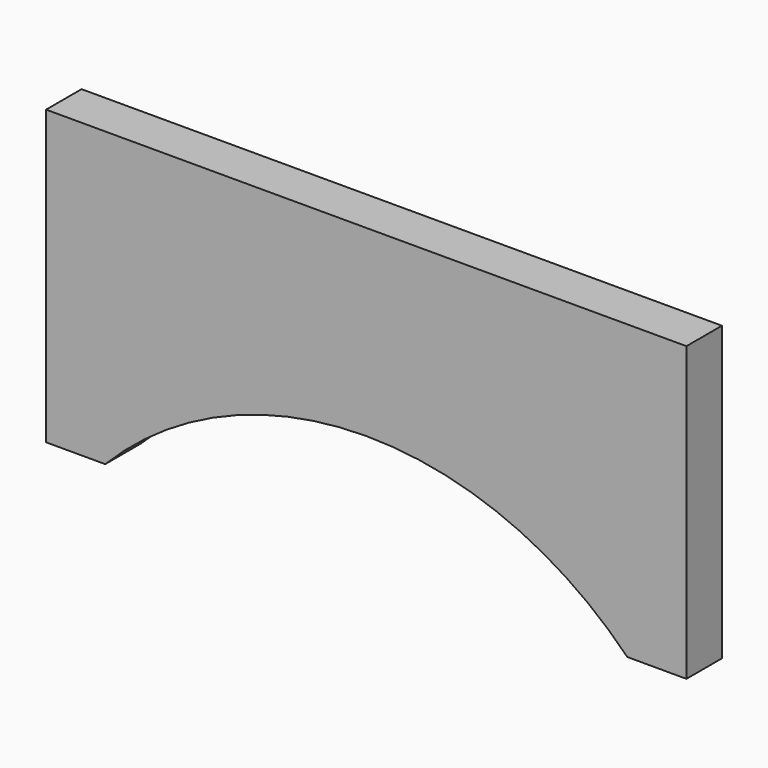
from build123d import *

# Parameters (mm, degrees)
F1_DEPTH = 19.05
F2_DEPTH = 19.05


with BuildPart() as f1:
    # F0 (on Front) → F1 (new body)
    with BuildSketch(Plane.XZ):
        with BuildLine():
            Line((171.029483, 0), (196.429483, 0))
            Line((196.429483, 0), (196.429483, 125.8062))
            Line((196.429483, 125.8062), (171.029483, 125.8062))
            Line((171.029483, 125.8062), (-53.227117, 125.8062))
            Line((-53.227117, 125.8062), (-78.627117, 125.8062))
            Line((-78.627117, 125.8062), (-78.627117, 0))
            Line((-78.627117, 0), (-53.227117, 0))
            ThreePointArc((-53.227117, 0), (58.901183, 47.101938), (171.029483, 0))
        make_face()
        with BuildLine():
            Line((69.962883, 0), (171.029483, 0))
            ThreePointArc((171.029483, 0), (58.901183, 47.101938), (-53.227117, 0))
            Line((-53.227117, 0), (69.962883, 0))
        make_face()
    extrude(amount=F1_DEPTH)

    # F0 (on Front) → F2 (cut)
    with BuildSketch(Plane.XZ):
        with BuildLine():
            Line((69.962883, 0), (171.029483, 0))
            ThreePointArc((171.029483, 0), (58.901183, 47.101938), (-53.227117, 0))
            Line((-53.227117, 0), (69.962883, 0))
        make_face()
    extrude(amount=F2_DEPTH, mode=Mode.SUBTRACT)


solid = f1.part
